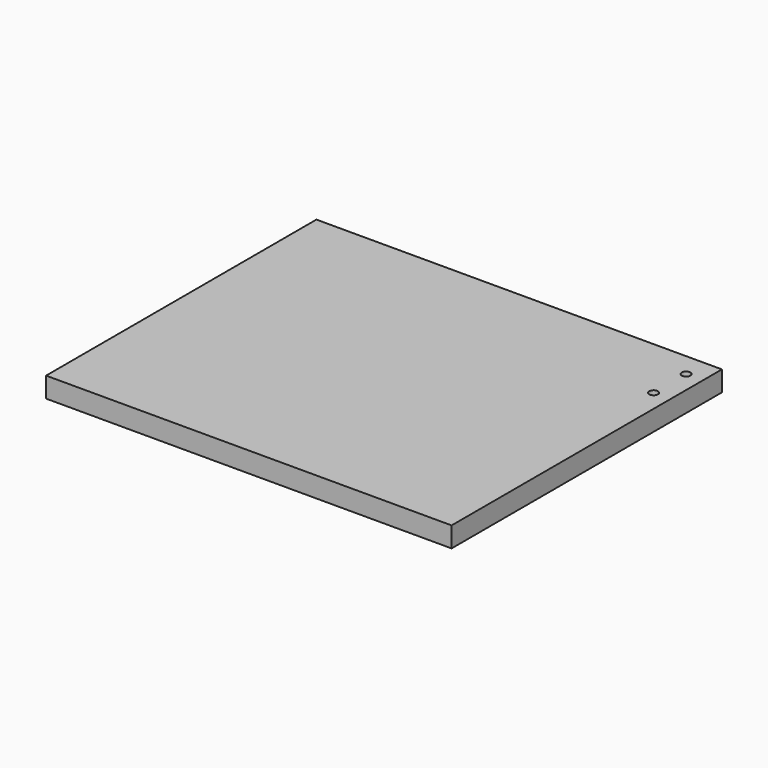
from build123d import *

# Parameters (mm, degrees)
SKETCH_W     = 300
SKETCH_H     = 250
PAD_DEPTH    = 15
SKETCH001_R  = 3.2
POCKET_DEPTH = 15.001


with BuildPart() as part:
    # Sketch → Pad (new body)
    with BuildSketch(Plane.XY):
        with Locations((150, 125)):
            Rectangle(SKETCH_W, SKETCH_H)
    extrude(amount=PAD_DEPTH)

    # Sketch001 (on Face6 of Pad) → Pocket (cut, through all)
    with BuildSketch(Plane.XY.offset(15)):
        with Locations((287.5, 232.5)):
            Circle(SKETCH001_R)
        with Locations((287.5, 202.5)):
            Circle(SKETCH001_R)
    extrude(amount=-POCKET_DEPTH, mode=Mode.SUBTRACT)


solid = part.part
